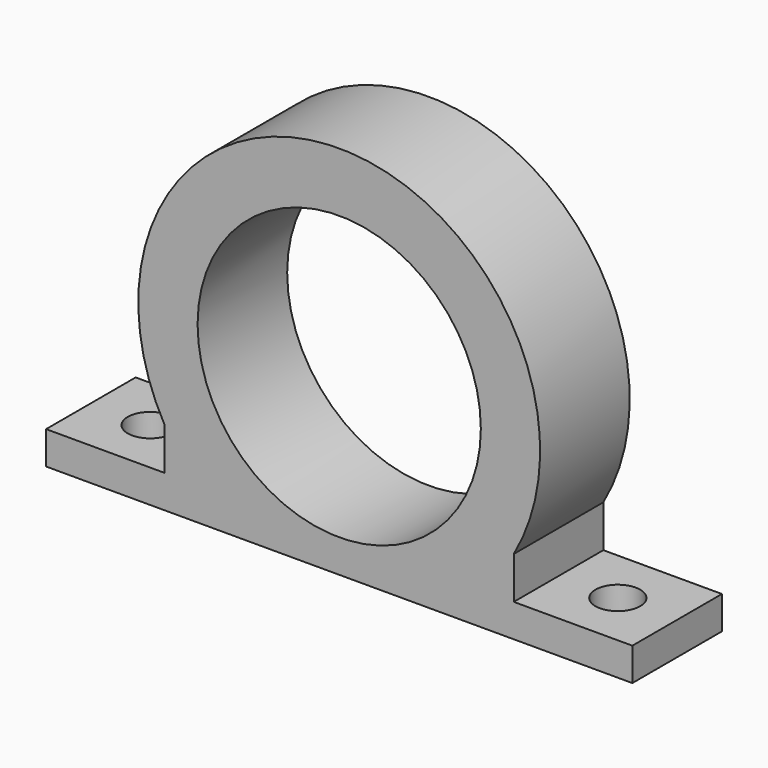
from build123d import *

# Parameters (mm, degrees)
F0_R     = 21.5
F1_DEPTH = 17
F2_R     = 3.4
F3_DEPTH = 57.001


with BuildPart() as f1:
    # F0 (on Front) → F1 (new body)
    with BuildSketch(Plane.XZ):
        with BuildLine():
            Line((-44.5, -21.5), (-44.5, -26.5))
            Line((-44.5, -26.5), (44.5, -26.5))
            Line((44.5, -26.5), (44.5, -21.5))
            Line((44.5, -21.5), (26.5, -21.5))
            Line((26.5, -21.5), (26.5, -15.099669))
            ThreePointArc((26.5, -15.099669), (0, 30.5), (-26.5, -15.099669))
            Line((-26.5, -15.099669), (-26.5, -21.5))
            Line((-26.5, -21.5), (-44.5, -21.5))
        make_face()
        Circle(F0_R, mode=Mode.SUBTRACT)
    extrude(amount=F1_DEPTH)

    # F2 (on face) → F3 (cut, through all)
    with BuildSketch(Plane(origin=(0, 0, -26.5), x_dir=(1, 0, 0), z_dir=(0, 0, -1))):
        with Locations((-35.5, 8.5)):
            Circle(F2_R)
        with Locations((35.5, 8.5)):
            Circle(F2_R)
    extrude(amount=-F3_DEPTH, mode=Mode.SUBTRACT)


solid = f1.part
